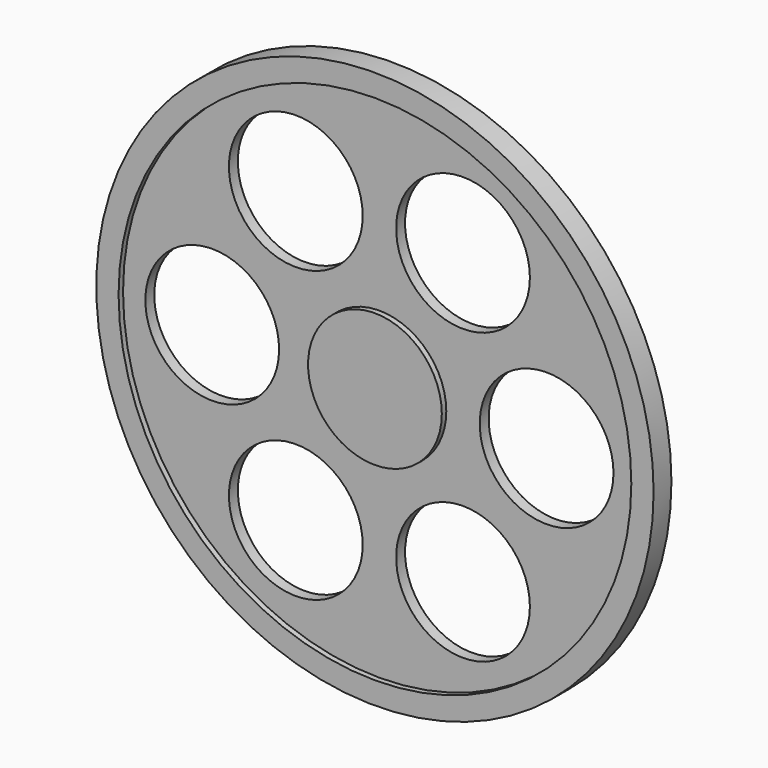
from build123d import *

# Parameters (mm, degrees)
F0_R      = 79.375
F1_DEPTH  = 3.175
F2_R      = 73.025
F3_DEPTH  = 1.5875
F4_R      = 73.025
F5_DEPTH  = 1.5875
F6_R      = 19.05
F7_DEPTH  = 1.5875
F8_R      = 19.05
F9_DEPTH  = 25.4
F10_R     = 12.7
F11_DEPTH = 1.5875


with BuildPart() as f1:
    # F0 (on Front) → F1 (new body, symmetric)
    with BuildSketch(Plane.XZ):
        Circle(F0_R)
    extrude(amount=F1_DEPTH, both=True)

    # F2 (on face) → F3 (cut)
    with BuildSketch(Plane.XZ.offset(3.175)):
        Circle(F2_R)
    extrude(amount=-F3_DEPTH, mode=Mode.SUBTRACT)

    # F4 (on face) → F5 (cut)
    with BuildSketch(Plane(origin=(0, 3.175, 0), x_dir=(-1, 0, 0), z_dir=(0, 1, 0))):
        Circle(F4_R)
    extrude(amount=-F5_DEPTH, mode=Mode.SUBTRACT)

    # F6 (on face) → F7 (join)
    with BuildSketch(Plane.XZ.offset(1.5875)):
        Circle(F6_R)
    extrude(amount=F7_DEPTH)

    # F8 (on face) → F9 (cut)
    with BuildSketch(Plane.XZ.offset(1.5875)):
        with Locations((-23.8125, -41.24446)):
            Circle(F8_R)
        with Locations((-47.625, 0)):
            Circle(F8_R)
        with Locations((-23.8125, 41.24446)):
            Circle(F8_R)
        with Locations((23.8125, 41.24446)):
            Circle(F8_R)
        with Locations((47.625, 0)):
            Circle(F8_R)
        with Locations((23.8125, -41.24446)):
            Circle(F8_R)
    extrude(amount=-F9_DEPTH, mode=Mode.SUBTRACT)

    # F10 (on face) → F11 (join)
    with BuildSketch(Plane(origin=(0, 1.5875, 0), x_dir=(-1, 0, 0), z_dir=(0, 1, 0))):
        Circle(F10_R)
    extrude(amount=F11_DEPTH)


solid = f1.part
